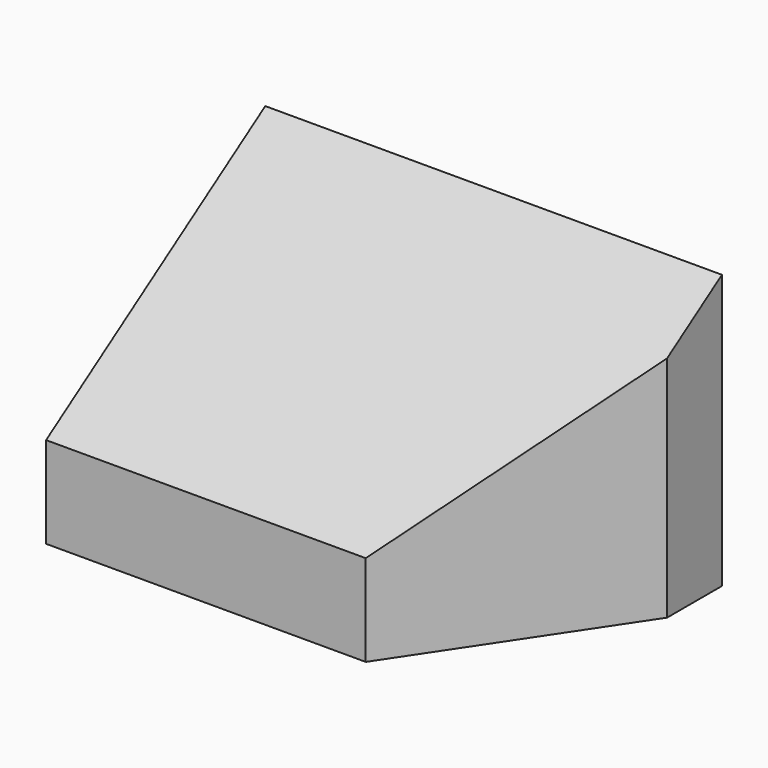
from build123d import *

# Parameters (mm, degrees)
F1_DEPTH = 60
F3_DEPTH = 100.001


with BuildPart() as f1:
    # F0 (on Top) → F1 (new body)
    with BuildSketch(Plane.XY):
        Polygon((0, 60), (0, 0), (70, 0), (100, 45), (100, 60), align=None)
    extrude(amount=F1_DEPTH)

    # F2 (on face) → F3 (cut, through all)
    with BuildSketch(Plane(origin=(0, 0, 0), x_dir=(0, -1, 0), z_dir=(-1, 0, 0))):
        Polygon((0, 60), (-60, 60), (0, 20), align=None)
    extrude(amount=-F3_DEPTH, mode=Mode.SUBTRACT)


solid = f1.part
